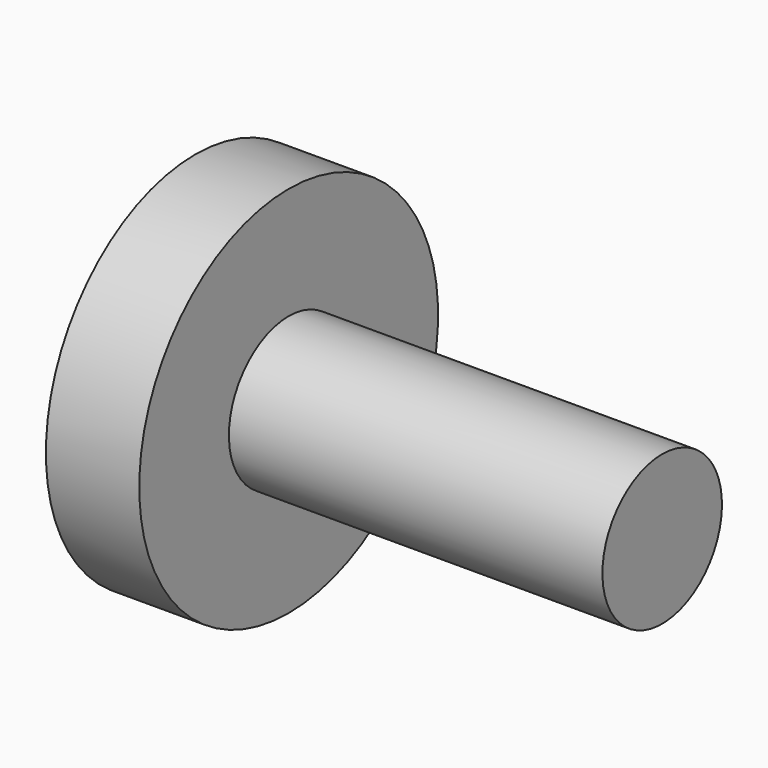
from build123d import *


with BuildPart() as part:
    # Sketch → Revolution (revolve)
    with BuildSketch(Plane.XZ):
        Polygon((0, 0), (50, 0), (50, 8), (10, 8), (10, 20), (0, 20), align=None)
    revolve(axis=Axis((0, 0, 0), (1, 0, 0)))


solid = part.part
